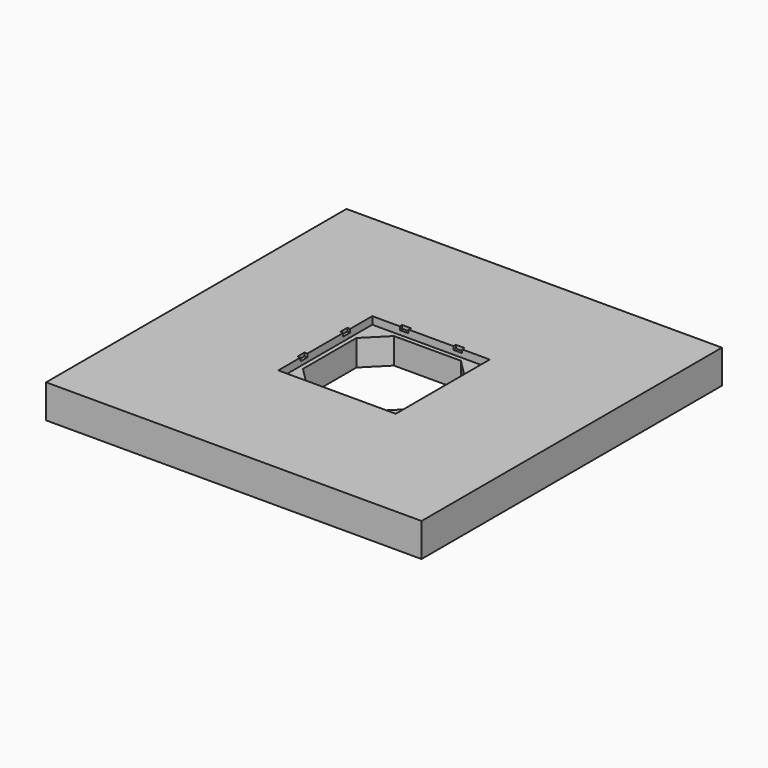
from build123d import *

# Parameters (mm, degrees)
F0_W     = 280
F0_H     = 280
F1_DEPTH = 25
F2_W     = 6.5
F2_H     = 5.5
F2_W_2   = 11
F2_H_2   = 6.5
F3_DEPTH = 2.5
F4_W     = 87.6
F4_H     = 87.6
F5_DEPTH = 5.6


with BuildPart() as f1:
    # F0 (on Top) → F1 (new body)
    with BuildSketch(Plane.XY):
        Rectangle(F0_W, F0_H)
        Polygon((-40.5, 24.943651), (-24.943651, 40.5), (24.943651, 40.5), (40.5, 24.943651), (40.5, -24.943651), (24.943651, -40.5), (-24.943651, -40.5), (-40.5, -24.943651), align=None, mode=Mode.SUBTRACT)
    extrude(amount=F1_DEPTH)

    # F2 (on face) → F3 (cut)
    with BuildSketch(Plane.XY.offset(25)):
        with Locations((-20, 43.25)):
            Rectangle(F2_W, F2_H)
        with Locations((-20, 37.75)):
            Rectangle(F2_W, F2_H)
        with Locations((20, 43.25)):
            Rectangle(F2_W, F2_H)
        with Locations((20, 37.75)):
            Rectangle(F2_W, F2_H)
        with Locations((-40.5, 20)):
            Rectangle(F2_W_2, F2_H_2)
        with Locations((-40.5, -20)):
            Rectangle(F2_W_2, F2_H_2)
    extrude(amount=-F3_DEPTH, mode=Mode.SUBTRACT)

    # F4 (on face) → F5 (cut)
    with BuildSketch(Plane.XY.offset(25)):
        Rectangle(F4_W, F4_H)
    extrude(amount=-F5_DEPTH, mode=Mode.SUBTRACT)


solid = f1.part
